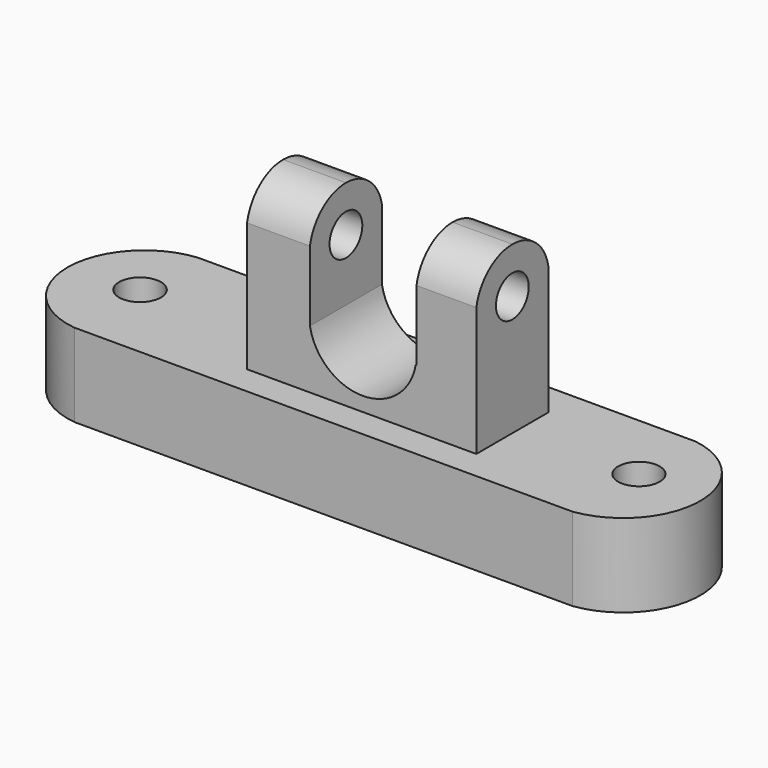
from build123d import *

# Parameters (mm, degrees)
F1_DEPTH  = 25.4
F2_R      = 6.3918462825
F3_DEPTH  = 25.401
F4_R      = 6.3541975942
F5_DEPTH  = 25.401
F6_W      = 70.0357761234
F6_H      = 27.4913627654
F7_DEPTH  = 50.8
F9_DEPTH  = 126.9250129275
F10_R     = 6.2560049958
F11_DEPTH = 126.9250129275
F13_DEPTH = 37.709375603


with BuildPart() as f1:
    # F0 (on Top) → F1 (new body)
    with BuildSketch(Plane.XY):
        with BuildLine():
            Line((75.9690925479, 21.5900018811), (-75.9690925479, 21.5900018811))
            ThreePointArc((-75.9690925479, 21.5900018811), (-97.1712359727, -1.524181319), (-76.4309093356, -25.0536352396))
            Line((-76.4309093356, -25.0536352396), (75.738184154, -25.0536352396))
            ThreePointArc((75.738184154, -25.0536352396), (96.0904147546, -1.8319984366), (75.9690925479, 21.5900018811))
        make_face()
    extrude(amount=F1_DEPTH)

    # F2 (on face) → F3 (cut, through all)
    with BuildSketch(Plane.XY.offset(25.4)):
        with Locations((-76.4309093356, 0)):
            Circle(F2_R)
    extrude(amount=-F3_DEPTH, mode=Mode.SUBTRACT)

    # F4 (on face) → F5 (cut, through all)
    with BuildSketch(Plane.XY.offset(25.4)):
        with Locations((75.9690925479, 0)):
            Circle(F4_R)
    extrude(amount=-F5_DEPTH, mode=Mode.SUBTRACT)

    # F6 (on face) → F7 (join)
    with BuildSketch(Plane.XY.offset(25.4)):
        with Locations((4.1845785454, -2.3726923391)):
            Rectangle(F6_W, F6_H)
    extrude(amount=F7_DEPTH)

    # F8 (on face) → F9 (cut, through all)
    with BuildSketch(Plane(origin=(-30.8333095163, 0, 0), x_dir=(0, -1, 0), z_dir=(-1, 0, 0))):
        with BuildLine():
            ThreePointArc((-11.3729890436, 64.7699981928), (-6.5658296023, 72.9691803573), (2.3726923391, 76.2))
            Line((2.3726923391, 76.2), (-11.3729890436, 76.2))
            Line((-11.3729890436, 76.2), (-11.3729890436, 64.7699981928))
        make_face()
        with BuildLine():
            Line((16.1183737218, 76.2), (2.3726923391, 76.2))
            ThreePointArc((2.3726923391, 76.2), (11.3112142805, 72.9691803573), (16.1183737218, 64.7699981928))
            Line((16.1183737218, 64.7699981928), (16.1183737218, 76.2))
        make_face()
    extrude(amount=-F9_DEPTH, mode=Mode.SUBTRACT)

    # F10 (on face) → F11 (cut, through all)
    with BuildSketch(Plane(origin=(-30.8333095163, 0, 0), x_dir=(0, -1, 0), z_dir=(-1, 0, 0))):
        with Locations((2.3726923391, 62.2197442057)):
            Circle(F10_R)
    extrude(amount=-F11_DEPTH, mode=Mode.SUBTRACT)

    # F12 (on face) → F13 (cut, through all)
    with BuildSketch(Plane.XZ.offset(16.1183737218)):
        Polygon((-11.6325737908, 78.8554549217), (-11.6325737908, 43.2954542339), (20.6946991384, 43.2954542339), (20.9256093949, 43.2954542339), (20.9256093949, 78.8554549217), align=None)
        with BuildLine():
            Line((20.6946991384, 43.2954542339), (-11.6325737908, 43.2954542339))
            ThreePointArc((-11.6325737908, 43.2954542339), (4.5310626738, 29.7328506966), (20.6946991384, 43.2954542339))
        make_face()
    extrude(amount=-F13_DEPTH, mode=Mode.SUBTRACT)


solid = f1.part
